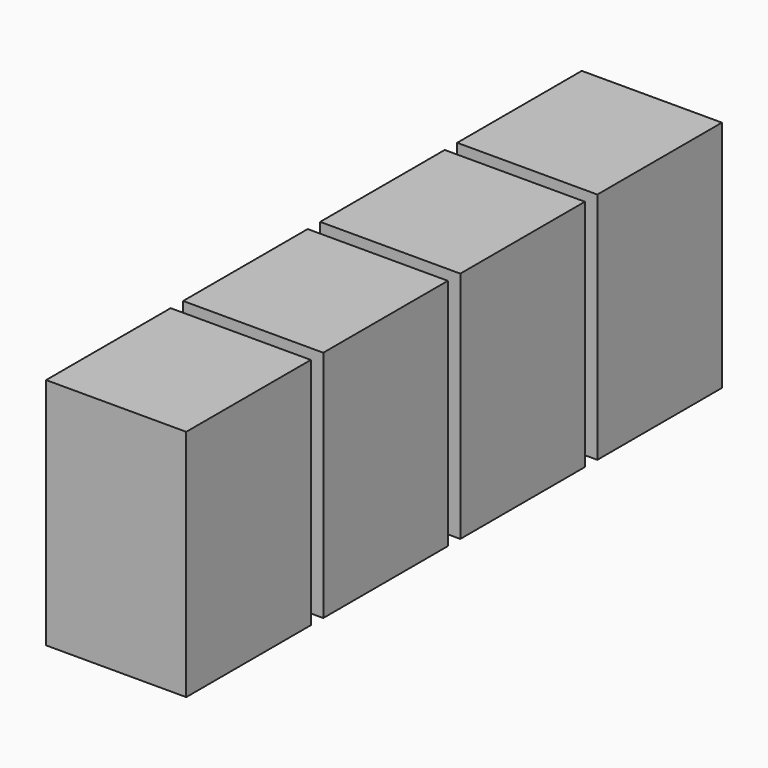
from build123d import *

# Parameters (mm, degrees)
BOX089_W     = 9
BOX089_H     = 10
BOX089_DEPTH = 15
BOX090_W     = 9
BOX090_H     = 10
BOX090_DEPTH = 15
BOX091_W     = 9
BOX091_H     = 10
BOX091_DEPTH = 15
BOX088_W     = 9
BOX088_H     = 10
BOX088_DEPTH = 15


with BuildPart() as cube059:
    # Box089 → Box089 (new body)
    with BuildSketch(Plane(origin=(2.5, 24, 0), x_dir=(1, 0, 0), z_dir=(0, 0, 1))):
        with Locations((4.5, 5)):
            Rectangle(BOX089_W, BOX089_H)
    extrude(amount=BOX089_DEPTH)


with BuildPart() as cube060:
    # Box090 → Box090 (new body)
    with BuildSketch(Plane(origin=(2.5, 35, 0), x_dir=(1, 0, 0), z_dir=(0, 0, 1))):
        with Locations((4.5, 5)):
            Rectangle(BOX090_W, BOX090_H)
    extrude(amount=BOX090_DEPTH)


with BuildPart() as cube061:
    # Box091 → Box091 (new body)
    with BuildSketch(Plane(origin=(2.5, 46, 0), x_dir=(1, 0, 0), z_dir=(0, 0, 1))):
        with Locations((4.5, 5)):
            Rectangle(BOX091_W, BOX091_H)
    extrude(amount=BOX091_DEPTH)


with BuildPart() as inputs001:
    # Box088 → Box088 (new body)
    with BuildSketch(Plane(origin=(2.5, 13, 0), x_dir=(1, 0, 0), z_dir=(0, 0, 1))):
        with Locations((4.5, 5)):
            Rectangle(BOX088_W, BOX088_H)
    extrude(amount=BOX088_DEPTH)

    # Fusion068: union Cube059, Cube060, Cube061
    add(cube059.part)
    add(cube060.part)
    add(cube061.part)


solid = inputs001.part
